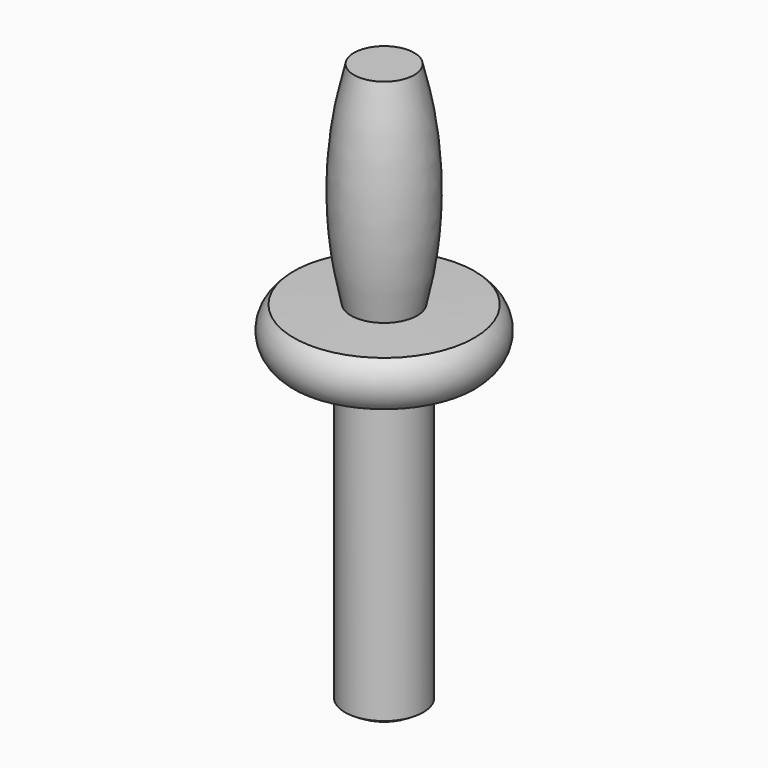
from build123d import *


with BuildPart() as f1:
    # F0 (on Front) → F1 (revolve)
    with BuildSketch(Plane.XZ):
        with BuildLine():
            Line((38.1, 60.675619), (38.1, 72.105619))
            ThreePointArc((38.1, 72.105619), (37.60681, 72.770575), (37.061118, 73.393169))
            Line((37.061118, 73.393169), (10.722541, 73.847691))
            ThreePointArc((10.722541, 73.847691), (16.459617, 118.268067), (10.750363, 162.692028))
            Line((10.750363, 162.692028), (0, 162.692028))
            Line((0, 162.692028), (0, 50.030045))
            Line((0, 50.030045), (0, 0))
            Line((0, 0), (0, -73.519974))
            ThreePointArc((0, -73.519974), (7.275874, -72.009465), (13.97, -68.783219))
            Line((13.97, -68.783219), (13.97, 59.405619))
            Line((13.97, 59.405619), (37.077773, 59.405619))
            ThreePointArc((37.077773, 59.405619), (37.614401, 60.020083), (38.1, 60.675619))
        make_face()
        with BuildLine():
            Line((38.1, 75.915619), (13.97, 76.332028))
            ThreePointArc((13.97, 76.332028), (18.981485, 120.862692), (12.7, 165.232028))
            Line((12.7, 165.232028), (0, 165.232028))
            Line((0, 165.232028), (0, 162.692028))
            Line((0, 162.692028), (10.750363, 162.692028))
            ThreePointArc((10.750363, 162.692028), (16.459617, 118.268067), (10.722541, 73.847691))
            Line((10.722541, 73.847691), (37.061118, 73.393169))
            ThreePointArc((37.061118, 73.393169), (37.60681, 72.770575), (38.1, 72.105619))
            Line((38.1, 72.105619), (38.1, 75.915619))
        make_face()
        with BuildLine():
            ThreePointArc((38.1, 56.865619), (42.39974, 66.390619), (38.1, 75.915619))
            Line((38.1, 75.915619), (38.1, 72.105619))
            ThreePointArc((38.1, 72.105619), (39.85974, 66.390619), (38.1, 60.675619))
            Line((38.1, 60.675619), (38.1, 56.865619))
        make_face()
        with BuildLine():
            Line((16.51, 56.865619), (38.1, 56.865619))
            Line((38.1, 56.865619), (38.1, 60.675619))
            ThreePointArc((38.1, 60.675619), (37.614401, 60.020083), (37.077773, 59.405619))
            Line((37.077773, 59.405619), (13.97, 59.405619))
            Line((13.97, 59.405619), (13.97, -68.783219))
            ThreePointArc((13.97, -68.783219), (7.275874, -72.009465), (0, -73.519974))
            Line((0, -73.519974), (0, -76.067972))
            ThreePointArc((0, -76.067972), (8.656282, -74.217728), (16.51, -70.134381))
            Line((16.51, -70.134381), (16.51, 56.865619))
        make_face()
    revolve(axis=Axis((0, 0, 44.582028), (0, 0, -1)))


solid = f1.part
